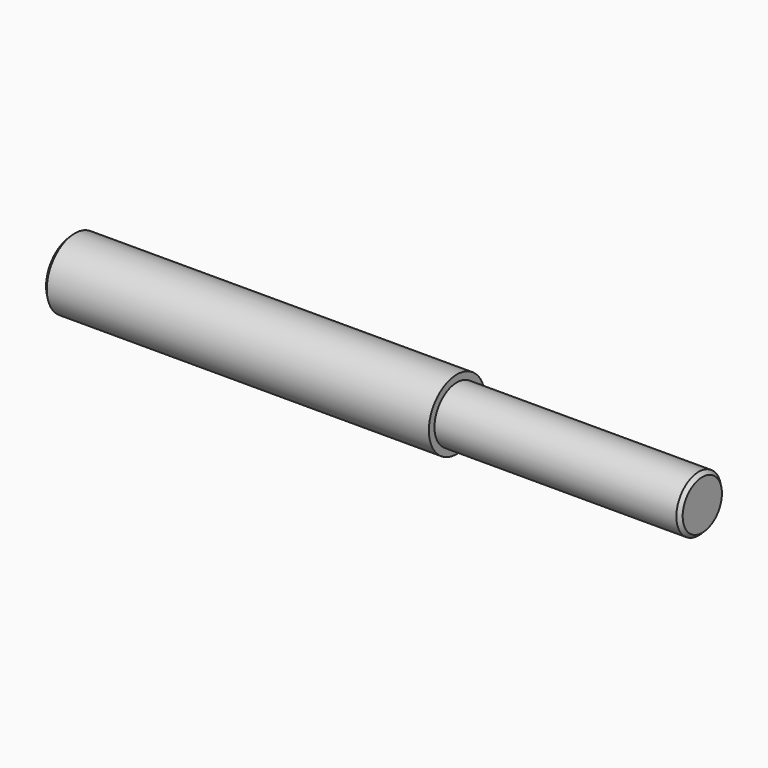
from build123d import *

# Parameters (mm, degrees)
F0_W    = 7
F0_H    = 0.8
F2_SIZE = 0.1


with BuildPart() as f1:
    # F0 (on Front) → F1 (revolve)
    with BuildSketch(Plane.XZ):
        Polygon((0, 1), (-11, 1), (-11, 0), (0, 0), (0, 0.8), align=None)
        with Locations((3.5, 0.4)):
            Rectangle(F0_W, F0_H)
    revolve(axis=Axis((-2, 0, 0), (1, 0, 0)))

    # F2
    f2_edges = [f1.edges().sort_by_distance(p)[0] for p in [
        (-11, 0, -1),
        (7, 0, -0.8),
    ]]
    chamfer(f2_edges, length=F2_SIZE)


solid = f1.part
